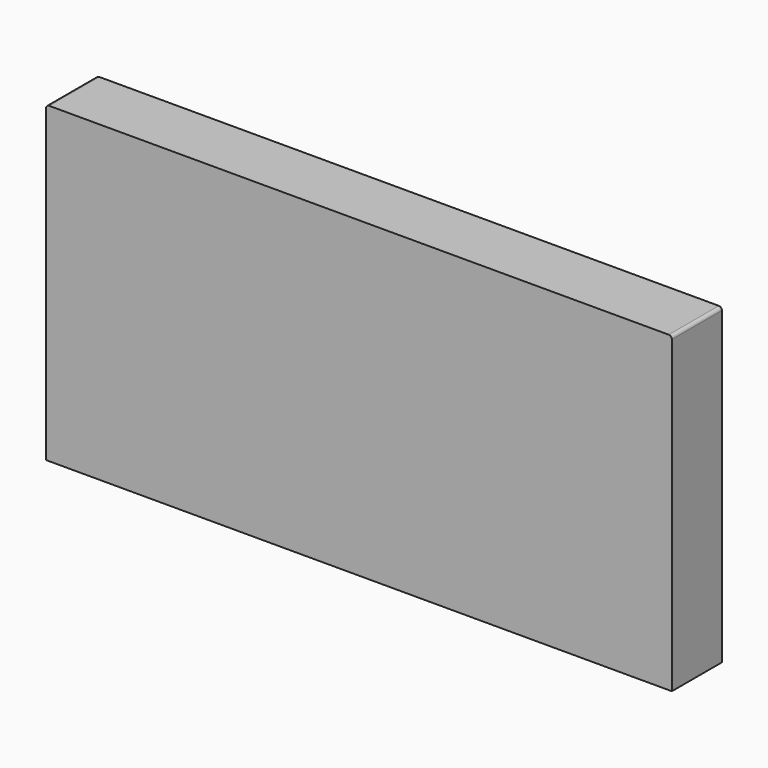
from build123d import *

# Parameters (mm, degrees)
F1_DEPTH = 10


with BuildPart() as f1:
    # F0 (on Front) → F1 (new body)
    with BuildSketch(Plane.XZ):
        with BuildLine():
            ThreePointArc((50, 24.5), (49.853553, 24.853553), (49.5, 25))
            Line((49.5, 25), (-49.5, 25))
            ThreePointArc((-49.5, 25), (-49.853553, 24.853553), (-50, 24.5))
            Line((-50, 24.5), (-50, -25))
            Line((-50, -25), (50, -25))
            Line((50, -25), (50, 24.5))
        make_face()
    extrude(amount=F1_DEPTH)


solid = f1.part
